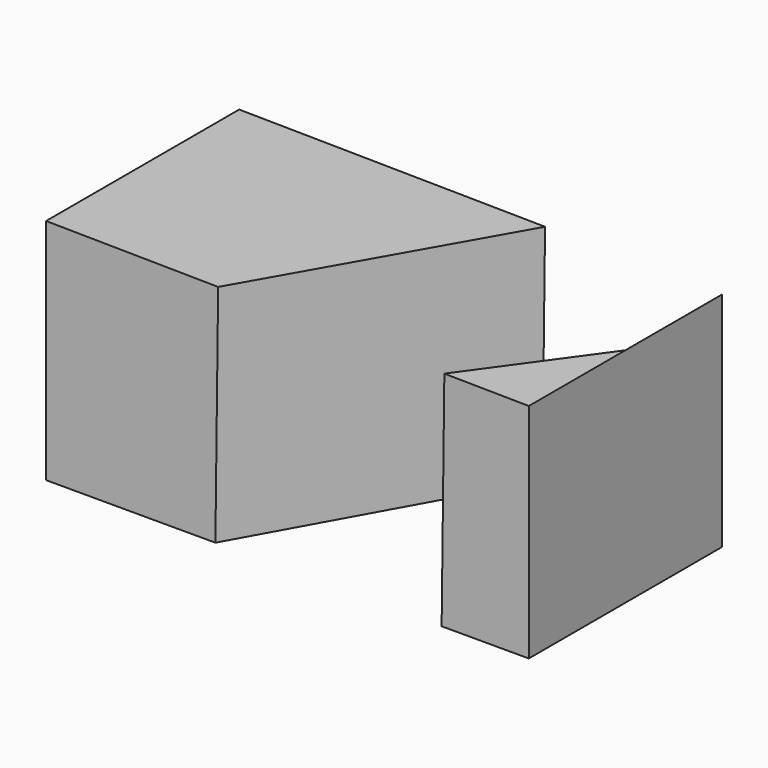
from build123d import *

# Parameters (mm, degrees)
F1_DEPTH = 25.4
F3_DEPTH = 25.4


with BuildPart() as f1:
    # F0 (on Front) → F1 (new body)
    with BuildSketch(Plane.XZ):
        Polygon((14.0499369874, 16.4094424249), (-36.7462737187, 17.0299082983), (-36.7462737187, -6.9805325929), (14.0499369874, -6.9805325929), align=None)
    extrude(amount=F1_DEPTH)

    # F2 (on face) → F3 (cut)
    with BuildSketch(Plane(origin=(0.202504218, 0, 16.5785861336), x_dir=(0.9999254076, 0, -0.0122138951), z_dir=(0.0122138951, 0, 0.9999254076))):
        Polygon((-4.7634486109, 0), (-18.8437420875, -25.4), (4.9604303204, -25.4), (13.8484657597, -12.7), (13.8484657597, 0), align=None)
    extrude(amount=-F3_DEPTH, mode=Mode.SUBTRACT)


solid = f1.part
